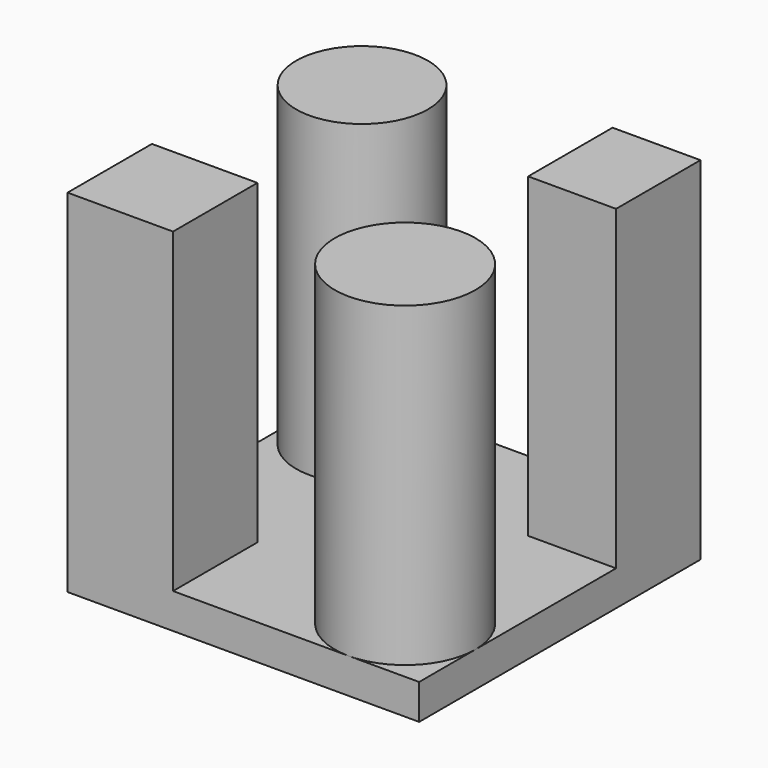
from build123d import *

# Parameters (mm, degrees)
F0_W     = 20
F0_H     = 20
F1_DEPTH = 2
F2_W     = 6
F2_H     = 6
F2_R     = 3.75
F2_R_2   = 4
F2_W_2   = 5
F3_DEPTH = 20


with BuildPart() as f1:
    # F0 (on Top) → F1 (new body)
    with BuildSketch(Plane.XY):
        Rectangle(F0_W, F0_H)
    extrude(amount=F1_DEPTH)

    # F2 (on Top) → F3 (join)
    with BuildSketch(Plane.XY):
        with Locations((-7, -7)):
            Rectangle(F2_W, F2_H)
        with Locations((-6.25, 6.25)):
            Circle(F2_R)
        with Locations((6, -6)):
            Circle(F2_R_2)
        with Locations((7.5, 7)):
            Rectangle(F2_W_2, F2_H)
    extrude(amount=F3_DEPTH)


solid = f1.part
